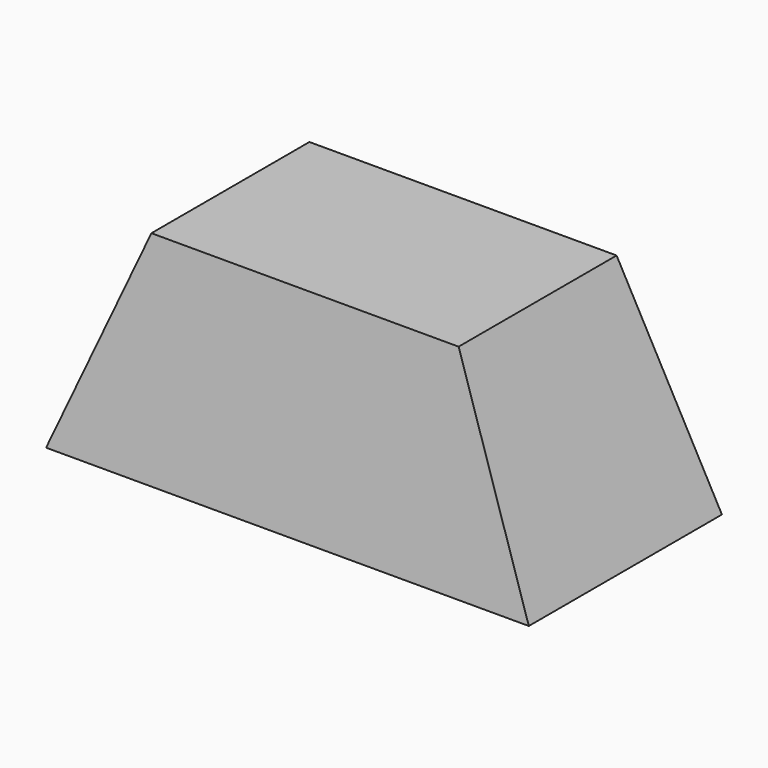
from build123d import *

# Parameters (mm, degrees)
F1_DEPTH = 550
F3_DEPTH = 2200.001


with BuildPart() as f1:
    # F0 (on Front) → F1 (new body, symmetric)
    with BuildSketch(Plane.XZ):
        Polygon((400, 950), (0, 0), (2200, 0), (1800, 950), align=None)
    extrude(amount=F1_DEPTH, both=True)

    # F2 (on Right) → F3 (cut, through all)
    with BuildSketch(Plane.YZ):
        Polygon((-550, 950), (-550, 0), (-450, 950), align=None)
        Polygon((450, 950), (550, 0), (550, 950), align=None)
    extrude(amount=F3_DEPTH, mode=Mode.SUBTRACT)


solid = f1.part
